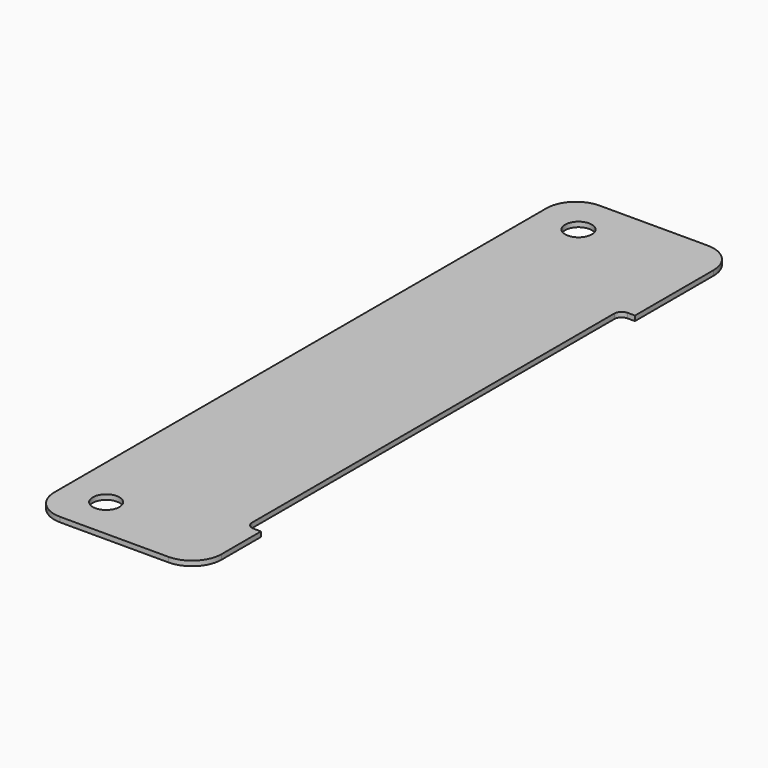
from build123d import *

# Parameters (mm, degrees)
F0_R     = 8.5725
F1_DEPTH = 3.175
F2_R     = 19.05
F3_R     = 4.7625


with BuildPart() as f1:
    # F0 (on Top) → F1 (new body)
    with BuildSketch(Plane.XY):
        Polygon((-22.126334, 214.595574), (-130.076334, 214.595574), (-130.076334, -220.379426), (-22.126334, -220.379426), (-22.126334, -169.579426), (-31.651334, -169.579426), (-31.651334, 132.045574), (-22.126334, 132.045574), align=None)
        with Locations((-102.999538, -193.391926)):
            Circle(F0_R, mode=Mode.SUBTRACT)
        with Locations((-102.999538, 187.608074)):
            Circle(F0_R, mode=Mode.SUBTRACT)
    extrude(amount=F1_DEPTH)

    # F2
    f2_edges = [f1.edges().sort_by_distance(p)[0] for p in [
        (-130.076334, -220.379426, 1.5875),
        (-22.126334, -220.379426, 1.5875),
        (-130.076334, 214.595574, 1.5875),
        (-22.126334, 214.595574, 1.5875),
    ]]
    fillet(f2_edges, radius=F2_R)

    # F3
    f3_edges = [f1.edges().sort_by_distance(p)[0] for p in [
        (-31.651334, -169.579426, 1.5875),
        (-31.651334, 132.045574, 1.5875),
    ]]
    fillet(f3_edges, radius=F3_R)


solid = f1.part
